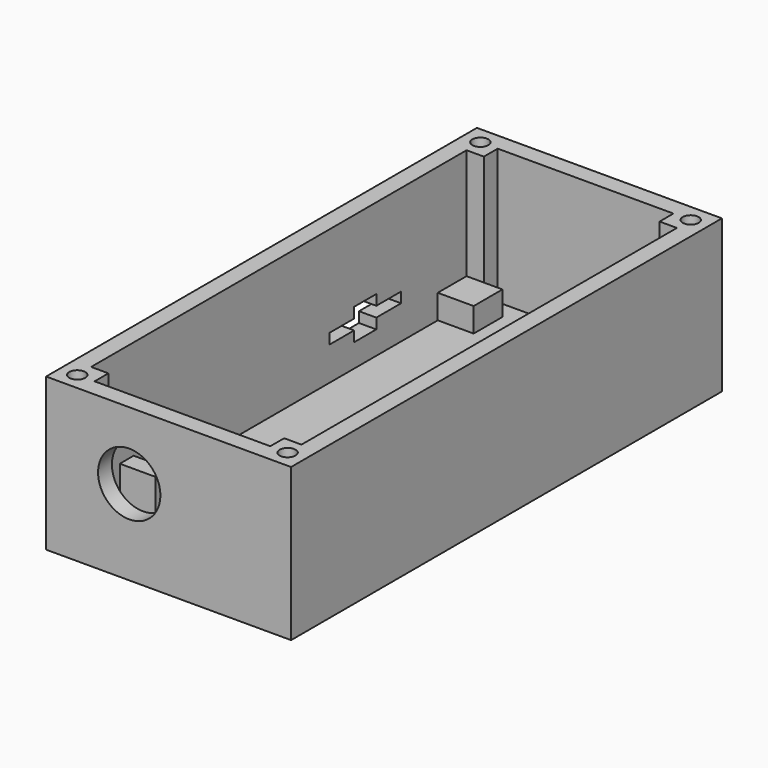
from build123d import *

# Parameters (mm, degrees)
SKETCH_W          = 35.3624
SKETCH_H          = 77.7328
PAD_DEPTH         = 16
PAD_DEPTH_BACK    = 6
SKETCH002_W       = 30.3624
SKETCH002_H       = 72.7328
POCKET_DEPTH      = 3.5
POCKET_DEPTH_BACK = 16
SKETCH003_W       = 5
SKETCH003_H       = 5
PAD001_DEPTH      = 16
PAD001_DEPTH_BACK = 3.5
SKETCH004_W       = 5.1844
SKETCH004_H       = 5.1948
SKETCH004_H_2     = 5
PAD002_DEPTH      = 3.5
SKETCH005_W       = 5.1844
SKETCH005_H       = 2.5
PAD003_DEPTH      = 1.6
PAD003_DEPTH_BACK = 3.5
SKETCH006_R       = 1.15
POCKET001_DEPTH   = 8
SKETCH007_R       = 4.5
POCKET002_DEPTH   = 2.5
POCKET003_DEPTH   = 2.5


with BuildPart() as part:
    # Sketch → Pad (new body, two sides)
    with BuildSketch(Plane.XY) as pad_sk:
        with Locations((14.6812, 25.8664)):
            Rectangle(SKETCH_W, SKETCH_H)
    extrude(amount=PAD_DEPTH)
    extrude(pad_sk.sketch, amount=-PAD_DEPTH_BACK)

    # Sketch002 → Pocket (cut, two sides)
    with BuildSketch(Plane.XY) as pocket_sk:
        with Locations((14.6812, 25.8664)):
            Rectangle(SKETCH002_W, SKETCH002_H)
    extrude(amount=-POCKET_DEPTH, mode=Mode.SUBTRACT)
    extrude(pocket_sk.sketch, amount=POCKET_DEPTH_BACK, mode=Mode.SUBTRACT)

    # Sketch003 → Pad001 (join, two sides)
    with BuildSketch(Plane.XY) as pad001_sk:
        with Locations((29.8624, -10.5)):
            Rectangle(SKETCH003_W, SKETCH003_H)
        with Locations((-0.5, -10.5)):
            Rectangle(SKETCH003_W, SKETCH003_H)
        with Locations((-0.5, 62.2328)):
            Rectangle(SKETCH003_W, SKETCH003_H)
        with Locations((29.8624, 62.2328)):
            Rectangle(SKETCH003_W, SKETCH003_H)
    extrude(amount=PAD001_DEPTH)
    extrude(pad001_sk.sketch, amount=-PAD001_DEPTH_BACK)

    # Sketch004 → Pad002 (join)
    with BuildSketch(Plane.XY):
        with Locations((2.0922, 57.1354)):
            Rectangle(SKETCH004_W, SKETCH004_H)
        with Locations((27.2702, 57.1354)):
            Rectangle(SKETCH004_W, SKETCH004_H)
        with Locations((2.0922, 2.174)):
            Rectangle(SKETCH004_W, SKETCH004_H_2)
        with Locations((27.2702, 2.174)):
            Rectangle(SKETCH004_W, SKETCH004_H_2)
    extrude(amount=-PAD002_DEPTH)

    # Sketch005 → Pad003 (join, two sides)
    with BuildSketch(Plane.XY) as pad003_sk:
        with Locations((27.2702, -1.576)):
            Rectangle(SKETCH005_W, SKETCH005_H)
        with Locations((2.0922, -1.576)):
            Rectangle(SKETCH005_W, SKETCH005_H)
    extrude(amount=PAD003_DEPTH)
    extrude(pad003_sk.sketch, amount=-PAD003_DEPTH_BACK)

    # Sketch006 (on DatumPlane) → Pocket001 (cut)
    with BuildSketch(Plane.XY.offset(16)):
        with Locations((29.8624, -10.5)):
            Circle(SKETCH006_R)
        with Locations((-0.5, -10.5)):
            Circle(SKETCH006_R)
        with Locations((29.8624, 62.2328)):
            Circle(SKETCH006_R)
        with Locations((-0.5, 62.2328)):
            Circle(SKETCH006_R)
    extrude(amount=-POCKET001_DEPTH, mode=Mode.SUBTRACT)

    # Sketch007 (on DatumPlane) → Pocket002 (cut)
    with BuildSketch(Plane.XZ.offset(13)):
        with Locations((9, 6.25)):
            Circle(SKETCH007_R)
    extrude(amount=-POCKET002_DEPTH, mode=Mode.SUBTRACT)

    # Sketch008 (on DatumPlane) → Pocket003 (cut)
    with BuildSketch(Plane(origin=(-3, 0, 0), x_dir=(0, -1, 0), z_dir=(-1, 0, 0))):
        Polygon((-47.9278, 2.85), (-43.4528, 2.85), (-43.4528, 4.35), (-39.4528, 4.35), (-39.4528, 2.85), (-34.9778, 2.85), (-34.9778, 1.35), (-39.4528, 1.35), (-39.4528, -0.15), (-43.4528, -0.15), (-43.4528, 1.35), (-47.9278, 1.35), align=None)
    extrude(amount=-POCKET003_DEPTH, mode=Mode.SUBTRACT)


solid = part.part
